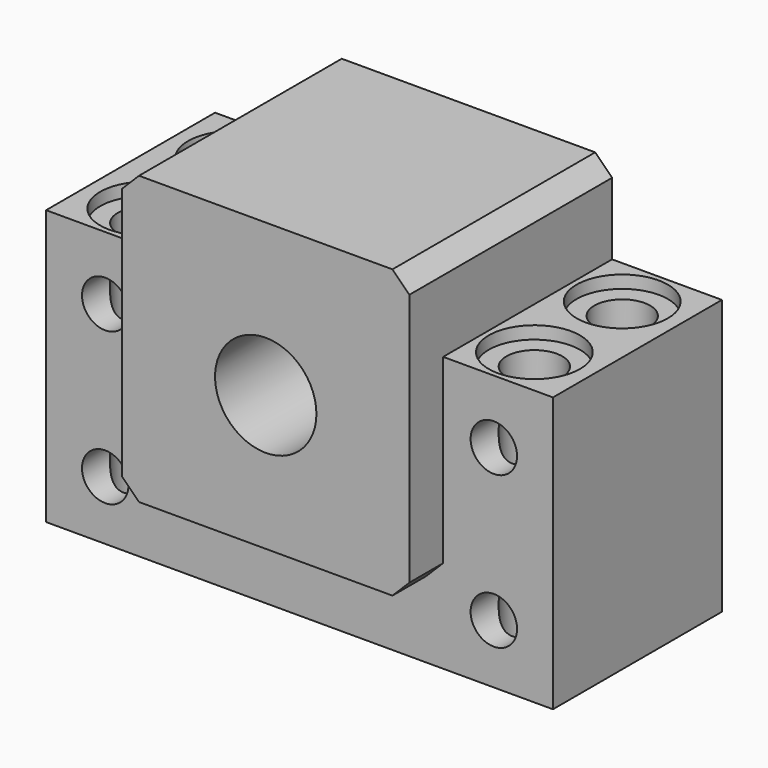
from build123d import *

# Parameters (mm, degrees)
F0_R           = 2.75
F0_R_2         = 6
F1_DEPTH       = 12.5
F2_R           = 6
F3_DEPTH       = 5
F5_D           = 6.6
F5_CBORE_D     = 10.8
F5_CBORE_DEPTH = 1.5


with BuildPart() as f1:
    # F0 (on Front) → F1 (new body, symmetric)
    with BuildSketch(Plane.XZ):
        Polygon((-30, 7.5), (-30, -25), (30, -25), (30, 7.5), (17, 7.5), (17, 16), (15, 18), (-15, 18), (-17, 16), (-17, 7.5), align=None)
        with Locations((-23, -18)):
            Circle(F0_R, mode=Mode.SUBTRACT)
        with Locations((23, -18)):
            Circle(F0_R, mode=Mode.SUBTRACT)
        with Locations((-23, 0)):
            Circle(F0_R, mode=Mode.SUBTRACT)
        Circle(F0_R_2, mode=Mode.SUBTRACT)
        with Locations((23, 0)):
            Circle(F0_R, mode=Mode.SUBTRACT)
    extrude(amount=F1_DEPTH, both=True)

    # F2 (on face) → F3 (join)
    with BuildSketch(Plane.XZ.offset(12.5)):
        Polygon((-15, 18), (-17, 16), (-17, -14), (-15, -16), (15, -16), (17, -14), (17, 16), (15, 18), align=None)
        Circle(F2_R, mode=Mode.SUBTRACT)
    extrude(amount=F3_DEPTH)

    # F5 (through all)
    with Locations(Plane.XY.offset(7.5)):
        with Locations((-23, 6.5), (-23, -6.5), (23, 6.5), (23, -6.5)):
            CounterBoreHole(F5_D / 2, F5_CBORE_D / 2, F5_CBORE_DEPTH)


solid = f1.part
